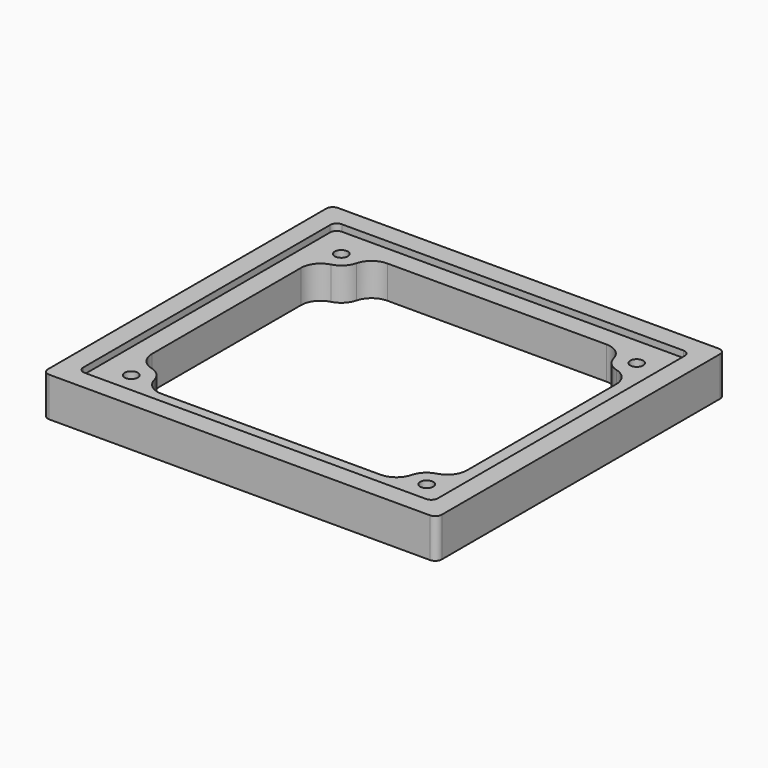
from build123d import *

# Parameters (mm, degrees)
F0_W      = 60
F0_H      = 55
F1_DEPTH  = 6
F2_W      = 54
F2_H      = 49
F3_DEPTH  = 1
F4_W      = 48
F4_H      = 43
F5_DEPTH  = 25
F6_R      = 3
F7_DEPTH  = 6
F8_DEPTH  = 54
F9_R      = 1
F10_DEPTH = 25
F11_R     = 3
F12_R     = 1


with BuildPart() as f1:
    # F0 (on Top) → F1 (new body)
    with BuildSketch(Plane.XY):
        with Locations((12.012976855, 12.1693141837)):
            Rectangle(F0_W, F0_H)
    extrude(amount=F1_DEPTH)

    # F2 (on face) → F3 (cut)
    with BuildSketch(Plane.XY.offset(6)):
        with Locations((12.012976855, 12.1693141837)):
            Rectangle(F2_W, F2_H)
    extrude(amount=-F3_DEPTH, mode=Mode.SUBTRACT)

    # F4 (on face) → F5 (cut)
    with BuildSketch(Plane.XY.offset(5)):
        with Locations((12.012976855, 12.1693141837)):
            Rectangle(F4_W, F4_H)
    extrude(amount=-F5_DEPTH, mode=Mode.SUBTRACT)

    # F6 (on face) → F7 (join, through all)
    with BuildSketch(Plane.XY.offset(6)):
        with Locations((-10.487023145, 32.1693141837)):
            Circle(F6_R)
        with Locations((34.512976855, 32.1693141837)):
            Circle(F6_R)
        with Locations((34.512976855, -7.8306858163)):
            Circle(F6_R)
        with Locations((-10.487023145, -7.8306858163)):
            Circle(F6_R)
    extrude(amount=-F7_DEPTH)

    # F8 (cut, through all): a face of the model
    f8_faces = [f1.faces().sort_by_distance(p)[0] for p in [
        (39.012976855, 12.1693141837, 5.5),
    ]]
    extrude(f8_faces, amount=F8_DEPTH, mode=Mode.SUBTRACT)

    # F9 (on face) → F10 (cut)
    with BuildSketch(Plane.XY.offset(6)):
        with Locations((-10.487023145, -7.8306858163)):
            Circle(F9_R)
        with Locations((34.512976855, -7.8306858163)):
            Circle(F9_R)
        with Locations((34.512976855, 32.1693141837)):
            Circle(F9_R)
        with Locations((-10.487023145, 32.1693141837)):
            Circle(F9_R)
    extrude(amount=-F10_DEPTH, mode=Mode.SUBTRACT)

    # F11
    f11_edges = [f1.edges().sort_by_distance(p)[0] for p in [
        (-7.888947, 33.669314, 2.5),
        (-11.987023, 29.571238, 2.5),
        (36.012977, 29.571238, 2.5),
        (31.914901, 33.669314, 2.5),
        (36.012977, -5.23261, 2.5),
        (31.914901, -9.330686, 2.5),
        (-11.987023, -5.23261, 2.5),
        (-7.888947, -9.330686, 2.5),
    ]]
    fillet(f11_edges, radius=F11_R)

    # F12
    f12_edges = [f1.edges().sort_by_distance(p)[0] for p in [
        (-17.987023, -15.330686, 3),
        (-17.987023, 39.669314, 3),
        (42.012977, 39.669314, 3),
        (42.012977, -15.330686, 3),
        (39.012977, 36.669314, 5.5),
        (-14.987023, 36.669314, 5.5),
        (-14.987023, -12.330686, 5.5),
        (39.012977, -12.330686, 5.5),
    ]]
    fillet(f12_edges, radius=F12_R)


solid = f1.part
